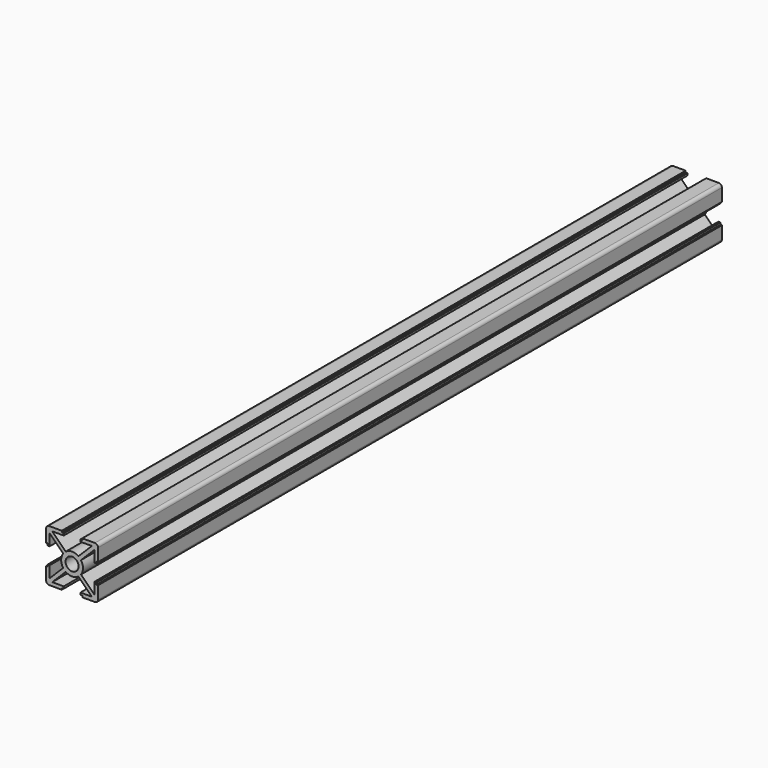
from build123d import *

# Parameters (mm, degrees)
F0_R     = 2.5
F1_DEPTH = 300


with BuildPart() as f1:
    # F0 (on Front) → F1 (new body)
    with BuildSketch(Plane.XZ):
        with BuildLine():
            Line((-50.15593, 47.812752), (-44.979215, 42.636037))
            ThreePointArc((-44.979215, 42.636037), (-45.75593, 40.202701), (-44.979215, 37.769366))
            Line((-44.979215, 37.769366), (-50.15593, 32.592651))
            Line((-50.15593, 32.592651), (-50.15593, 37.002701))
            Line((-50.15593, 37.002701), (-50.949922, 37.002701))
            Line((-50.949922, 37.002701), (-50.949922, 36.252701))
            Line((-50.949922, 36.252701), (-51.55593, 36.252701))
            Line((-51.55593, 36.252701), (-51.55593, 31.402701))
            ThreePointArc((-51.55593, 31.402701), (-51.204458, 30.554173), (-50.35593, 30.202701))
            Line((-50.35593, 30.202701), (-45.50593, 30.202701))
            Line((-45.50593, 30.202701), (-45.50593, 30.808709))
            Line((-45.50593, 30.808709), (-44.75593, 30.808709))
            Line((-44.75593, 30.808709), (-44.75593, 31.602701))
            Line((-44.75593, 31.602701), (-49.16598, 31.602701))
            Line((-49.16598, 31.602701), (-43.989265, 36.779416))
            ThreePointArc((-43.989265, 36.779416), (-41.55593, 36.002701), (-39.122595, 36.779416))
            Line((-39.122595, 36.779416), (-33.945879, 31.602701))
            Line((-33.945879, 31.602701), (-38.35593, 31.602701))
            Line((-38.35593, 31.602701), (-38.35593, 30.808709))
            Line((-38.35593, 30.808709), (-37.60593, 30.808709))
            Line((-37.60593, 30.808709), (-37.60593, 30.202701))
            Line((-37.60593, 30.202701), (-32.75593, 30.202701))
            ThreePointArc((-32.75593, 30.202701), (-31.907402, 30.554173), (-31.55593, 31.402701))
            Line((-31.55593, 31.402701), (-31.55593, 36.252701))
            Line((-31.55593, 36.252701), (-32.161938, 36.252701))
            Line((-32.161938, 36.252701), (-32.161938, 37.002701))
            Line((-32.161938, 37.002701), (-32.95593, 37.002701))
            Line((-32.95593, 37.002701), (-32.95593, 32.592651))
            Line((-32.95593, 32.592651), (-38.132645, 37.769366))
            ThreePointArc((-38.132645, 37.769366), (-37.35593, 40.202701), (-38.132645, 42.636037))
            Line((-38.132645, 42.636037), (-32.95593, 47.812752))
            Line((-32.95593, 47.812752), (-32.95593, 43.402701))
            Line((-32.95593, 43.402701), (-32.161938, 43.402701))
            Line((-32.161938, 43.402701), (-32.161938, 44.152701))
            Line((-32.161938, 44.152701), (-31.55593, 44.152701))
            Line((-31.55593, 44.152701), (-31.55593, 49.002701))
            ThreePointArc((-31.55593, 49.002701), (-31.907402, 49.851229), (-32.75593, 50.202701))
            Line((-32.75593, 50.202701), (-37.60593, 50.202701))
            Line((-37.60593, 50.202701), (-37.60593, 49.596693))
            Line((-37.60593, 49.596693), (-38.35593, 49.596693))
            Line((-38.35593, 49.596693), (-38.35593, 48.802701))
            Line((-38.35593, 48.802701), (-33.945879, 48.802701))
            Line((-33.945879, 48.802701), (-39.122595, 43.625986))
            ThreePointArc((-39.122595, 43.625986), (-41.55593, 44.402701), (-43.989265, 43.625986))
            Line((-43.989265, 43.625986), (-49.16598, 48.802701))
            Line((-49.16598, 48.802701), (-44.75593, 48.802701))
            Line((-44.75593, 48.802701), (-44.75593, 49.596693))
            Line((-44.75593, 49.596693), (-45.50593, 49.596693))
            Line((-45.50593, 49.596693), (-45.50593, 50.202701))
            Line((-45.50593, 50.202701), (-50.35593, 50.202701))
            ThreePointArc((-50.35593, 50.202701), (-51.204458, 49.851229), (-51.55593, 49.002701))
            Line((-51.55593, 49.002701), (-51.55593, 44.152701))
            Line((-51.55593, 44.152701), (-50.949922, 44.152701))
            Line((-50.949922, 44.152701), (-50.949922, 43.402701))
            Line((-50.949922, 43.402701), (-50.15593, 43.402701))
            Line((-50.15593, 43.402701), (-50.15593, 47.812752))
        make_face()
        with Locations((-41.55593, 40.202701)):
            Circle(F0_R, mode=Mode.SUBTRACT)
    extrude(amount=-F1_DEPTH)


solid = f1.part
